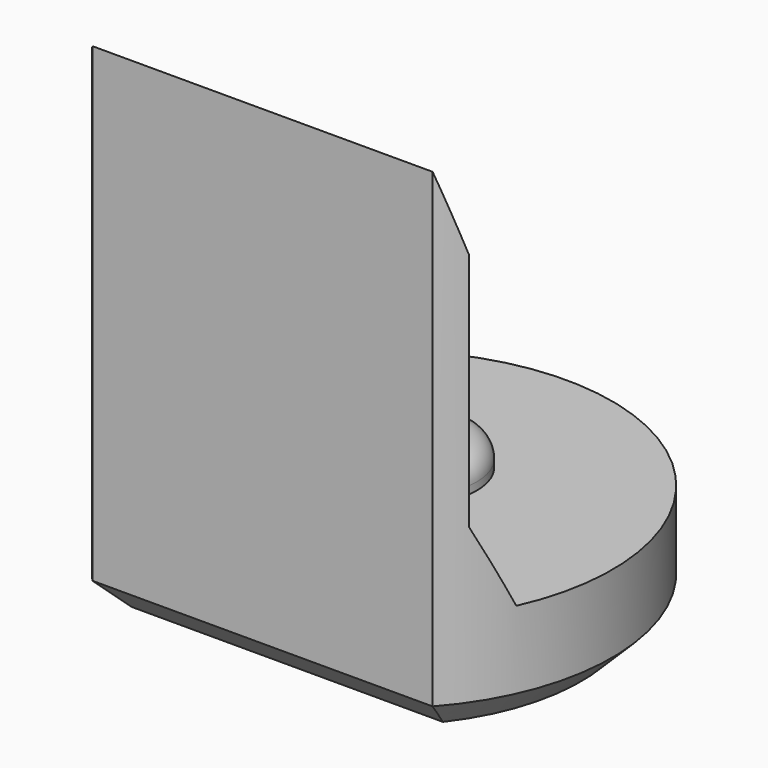
from build123d import *

# Parameters (mm, degrees)
PAD008_DEPTH         = 6.5
POCKET007_DEPTH      = 2.951
POCKET007_DEPTH_BACK = 2.951
SKETCH023_R          = 0.8
PAD009_DEPTH         = 0.4
FILLET001_R          = 0.3
CHAMFER007_SIZE      = 0.4


with BuildPart() as part:
    # Sketch022 → Pad008 (new body)
    with BuildSketch(Plane.XY):
        with BuildLine():
            ThreePointArc((2.2, -1.9653244007), (0, 2.95), (-2.2, -1.9653244007))
            Line((-2.2, -1.9653244007), (2.2, -1.9653244007))
        make_face()
    extrude(amount=PAD008_DEPTH)

    # Sketch024 → Pocket007 (cut, two sides)
    with BuildSketch(Plane.YZ) as pocket007_sk:
        Polygon((-1.97, 6.5), (-1.67, 5.5), (-1.67, 2.4), (-1.22, 1.4), (4, 1.4), (4, 6.5), align=None)
    extrude(amount=-POCKET007_DEPTH, mode=Mode.SUBTRACT)
    extrude(pocket007_sk.sketch, amount=POCKET007_DEPTH_BACK, mode=Mode.SUBTRACT)

    # Sketch023 (on Face7 of Pocket007) → Pad009 (join)
    with BuildSketch(Plane.XY.offset(1.4)):
        with Locations((0, 0.5)):
            Circle(SKETCH023_R)
    extrude(amount=PAD009_DEPTH)

    # Fillet001
    fillet001_edges = [part.edges().sort_by_distance(p)[0] for p in [
        (-0.8, 0.5, 1.8),
    ]]
    fillet(fillet001_edges, radius=FILLET001_R)

    # Chamfer007
    chamfer007_edges = [part.edges().sort_by_distance(p)[0] for p in [
        (0, 2.95, 0),
        (0, -1.965324, 0),
    ]]
    chamfer(chamfer007_edges, length=CHAMFER007_SIZE)


with BuildPart() as part_1:
    # Body087 placement: moved
    add(part.part.moved(Location((0, 42, 0))))


solid = part_1.part
